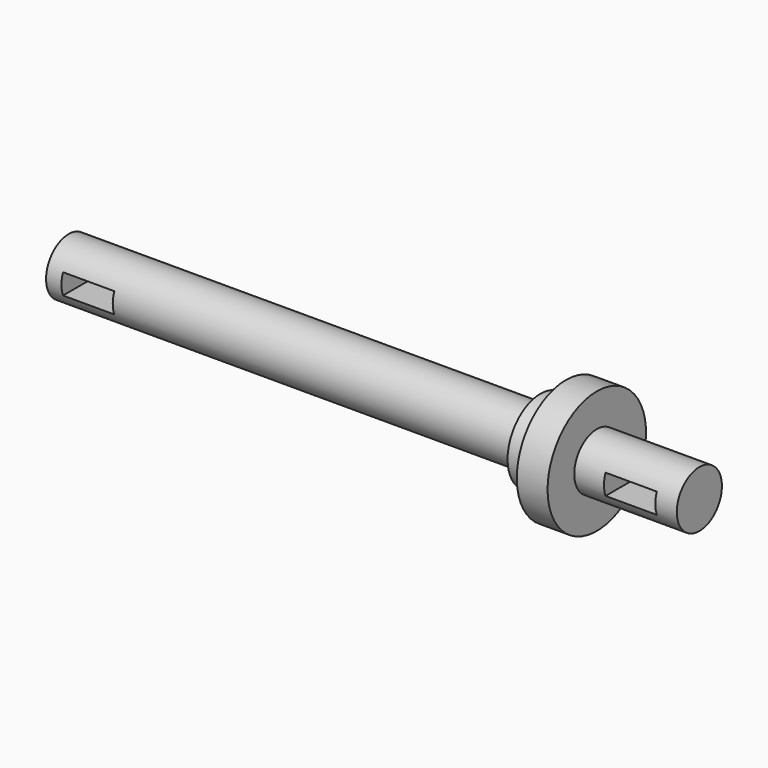
from build123d import *

# Parameters (mm, degrees)
F0_W     = 58.42
F0_H     = 3.4925
F0_W_2   = 12.7
F2_W     = 6.35
F2_H     = 2.54
F3_DEPTH = 12.7


with BuildPart() as f1:
    # F0 (on Front) → F1 (revolve)
    with BuildSketch(Plane.XZ):
        Rectangle(F0_W, F0_H)
        Polygon((29.21, 1.74625), (29.21, -1.74625), (32.385, -1.74625), (32.385, 3.33375), (29.21, 3.33375), align=None)
        Polygon((32.385, 3.33375), (32.385, -1.74625), (36.195, -1.74625), (36.195, 1.74625), (36.195, 5.87375), (32.385, 5.87375), align=None)
        with Locations((42.545, 0)):
            Rectangle(F0_W_2, F0_H)
    revolve(axis=Axis((0, 0, -1.74625), (-1, 0, 0)))

    # F2 (on Front) → F3 (cut, symmetric)
    with BuildSketch(Plane.XZ):
        with Locations((-24.13, -1.74625)):
            Rectangle(F2_W, F2_H)
        with Locations((43.053099, -1.74625)):
            Rectangle(F2_W, F2_H)
    extrude(amount=F3_DEPTH, both=True, mode=Mode.SUBTRACT)


solid = f1.part
